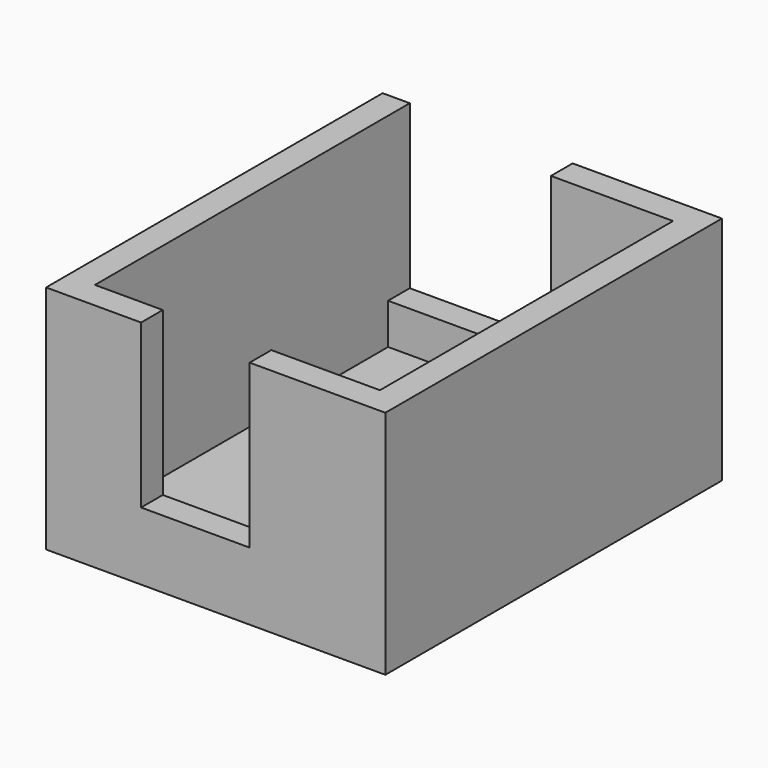
from build123d import *

# Parameters (mm, degrees)
F0_W     = 25
F0_H     = 31
F1_DEPTH = 17
F2_T     = -2
F3_W     = 8
F3_H     = 2
F3_W_2   = 12
F4_DEPTH = 12


with BuildPart() as f1:
    # F0 (on Top) → F1 (new body)
    with BuildSketch(Plane.XY):
        with Locations((-23.056051, 5.904353)):
            Rectangle(F0_W, F0_H)
    extrude(amount=F1_DEPTH)

    # F2
    f2_openings = [f1.faces().sort_by_distance(p)[0] for p in [
        (-23.056051, 5.904353, 17),
    ]]
    offset(amount=F2_T, openings=f2_openings)

    # F3 (on face) → F4 (cut)
    with BuildSketch(Plane.XY.offset(17)):
        with Locations((-24.556051, -8.595647)):
            Rectangle(F3_W, F3_H)
        with Locations((-27.556051, 20.404353)):
            Rectangle(F3_W_2, F3_H)
    extrude(amount=-F4_DEPTH, mode=Mode.SUBTRACT)


solid = f1.part
